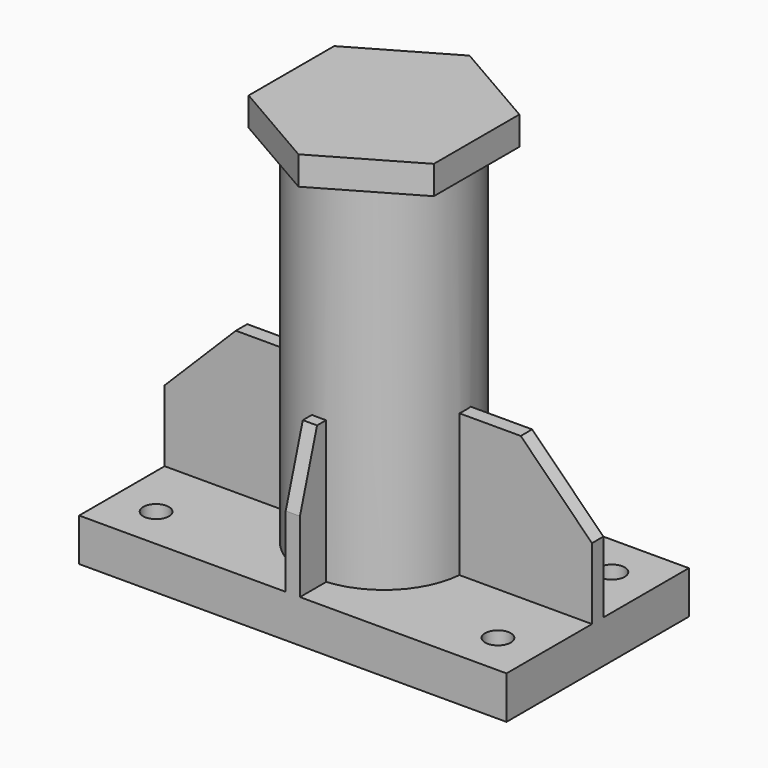
from build123d import *

# Parameters (mm, degrees)
EXTRUDE004_DEPTH      = 20
EXTRUDE001_DEPTH      = 5
SKETCH002_R           = 57.15
SKETCH002_R_2         = 47.15
EXTRUDE002_DEPTH      = 270
EXTRUDE003_DEPTH      = 5
CLONE_PLACEMENT_ANGLE = 180
SKETCH_W              = 300
SKETCH_H              = 160
SKETCH_R              = 9
EXTRUDE_DEPTH         = 30


with BuildPart() as lastplatte:
    # Sketch004 (on Face26 of Fusion) → Extrude004 (new body)
    with BuildSketch(Plane.XY.offset(300)):
        Polygon((65, 37.527767), (0, 75.055535), (-65, 37.527767), (-65, -37.527767), (0, -75.055535), (65, -37.527767), align=None)
    extrude(amount=-EXTRUDE004_DEPTH)


with BuildPart() as obj1:
    # Sketch001 → Extrude001 (new body, symmetric)
    with BuildSketch(Plane.XZ):
        Polygon((150, 30), (-150, 30), (-150, 80), (-100, 130), (100, 130), (150, 80), align=None)
    extrude(amount=EXTRUDE001_DEPTH, both=True)


with BuildPart() as obj2:
    # Sketch002 (on Face10 of Extrude) → Extrude002 (new body)
    with BuildSketch(Plane.XY.offset(30)):
        Circle(SKETCH002_R)
        Circle(SKETCH002_R_2, mode=Mode.SUBTRACT)
    extrude(amount=EXTRUDE002_DEPTH)


with BuildPart() as obj3:
    # Sketch003 → Extrude003 (new body, symmetric)
    with BuildSketch(Plane.YZ):
        Polygon((-80, 30), (-80, 80), (-65, 130), (-5, 130), (-5, 30), align=None)
    extrude(amount=EXTRUDE003_DEPTH, both=True)


with BuildPart() as obj4:
    # Clone base: copy of obj3
    add(obj3.part)


with BuildPart() as obj4_1:
    # Clone placement: moved
    add(obj4.part.rotate(Axis((0, 0, 0), (0, 0, 1)), CLONE_PLACEMENT_ANGLE))


with BuildPart() as fusion001:
    # Sketch → Extrude (new body)
    with BuildSketch(Plane.XY):
        Rectangle(SKETCH_W, SKETCH_H)
        with Locations((-120, 50)):
            Circle(SKETCH_R, mode=Mode.SUBTRACT)
        with Locations((120, 50)):
            Circle(SKETCH_R, mode=Mode.SUBTRACT)
        with Locations((120, -50)):
            Circle(SKETCH_R, mode=Mode.SUBTRACT)
        with Locations((-120, -50)):
            Circle(SKETCH_R, mode=Mode.SUBTRACT)
    extrude(amount=EXTRUDE_DEPTH)

    # Fusion: union obj1, obj2, obj3, obj4
    add(obj1.part)
    add(obj2.part)
    add(obj3.part)
    add(obj4_1.part)

    # Fusion001: union lastplatte
    add(lastplatte.part)


solid = fusion001.part
